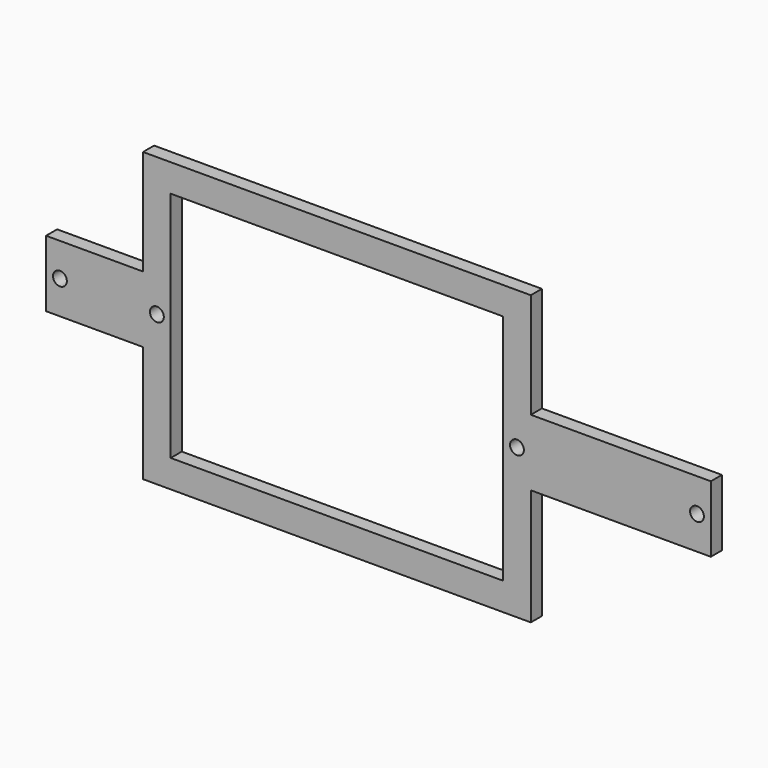
from build123d import *

# Parameters (mm, degrees)
BOX008_W          = 120
BOX008_H          = 30
BOX008_DEPTH      = 84
CYLINDER052_R     = 2.5
CYLINDER052_DEPTH = 10
CYLINDER053_R     = 2.5
CYLINDER053_DEPTH = 10
CYLINDER054_R     = 2.5
CYLINDER054_DEPTH = 10
CYLINDER055_R     = 2.5
CYLINDER055_DEPTH = 10
CYLINDER051_R     = 2.5
CYLINDER051_DEPTH = 10
CYLINDER056_R     = 2.5
CYLINDER056_DEPTH = 10
BOX001_W          = 240
BOX001_H          = 5
BOX001_DEPTH      = 24
BOX002_W          = 140
BOX002_H          = 5
BOX002_DEPTH      = 38
BOX003_W          = 140
BOX003_H          = 5
BOX003_DEPTH      = 42


with BuildPart() as gatewaycut:
    # Box008 → Box008 (new body)
    with BuildSketch(Plane(origin=(-75, -3.2, -75), x_dir=(1, 0, 0), z_dir=(0, 0, 1))):
        with Locations((60, 15)):
            Rectangle(BOX008_W, BOX008_H)
    extrude(amount=BOX008_DEPTH)


with BuildPart() as cylinder052:
    # Cylinder052 → Cylinder052 (new body)
    with BuildSketch(Plane(origin=(115, 0, -31), x_dir=(1, 0, 0), z_dir=(0, -1, 0))):
        Circle(CYLINDER052_R)
    extrude(amount=CYLINDER052_DEPTH)


with BuildPart() as cylinder053:
    # Cylinder053 → Cylinder053 (new body)
    with BuildSketch(Plane(origin=(-80, 0, -31), x_dir=(1, 0, 0), z_dir=(0, -1, 0))):
        Circle(CYLINDER053_R)
    extrude(amount=CYLINDER053_DEPTH)


with BuildPart() as cylinder054:
    # Cylinder054 → Cylinder054 (new body)
    with BuildSketch(Plane(origin=(50, 0, -31), x_dir=(1, 0, 0), z_dir=(0, -1, 0))):
        Circle(CYLINDER054_R)
    extrude(amount=CYLINDER054_DEPTH)


with BuildPart() as cylinder055:
    # Cylinder055 → Cylinder055 (new body)
    with BuildSketch(Plane(origin=(-45.75, 0, -56.3), x_dir=(1, 0, 0), z_dir=(0, -1, 0))):
        Circle(CYLINDER055_R)
    extrude(amount=CYLINDER055_DEPTH)


with BuildPart() as cylinder051:
    # Cylinder051 → Cylinder051 (new body)
    with BuildSketch(Plane(origin=(-115, 0, -31), x_dir=(1, 0, 0), z_dir=(0, -1, 0))):
        Circle(CYLINDER051_R)
    extrude(amount=CYLINDER051_DEPTH)


with BuildPart() as m3heatsetinserts001:
    # Cylinder056 → Cylinder056 (new body)
    with BuildSketch(Plane(origin=(-45.75, 0, -1.3), x_dir=(1, 0, 0), z_dir=(0, -1, 0))):
        Circle(CYLINDER056_R)
    extrude(amount=CYLINDER056_DEPTH)

    # Fusion018: union Cylinder052, Cylinder053, Cylinder054, Cylinder055, Cylinder051
    add(cylinder052.part)
    add(cylinder053.part)
    add(cylinder054.part)
    add(cylinder055.part)
    add(cylinder051.part)


with BuildPart() as m3heatsetinserts001_1:
    # Fusion018 placement: moved
    add(m3heatsetinserts001.part.moved(Location((0, 5.1, 0))))


with BuildPart() as cube:
    # Box001 → Box001 (new body)
    with BuildSketch(Plane(origin=(-120, 0, -43), x_dir=(1, 0, 0), z_dir=(0, 0, 1))):
        with Locations((120, 2.5)):
            Rectangle(BOX001_W, BOX001_H)
    extrude(amount=BOX001_DEPTH)


with BuildPart() as cube001:
    # Box002 → Box002 (new body)
    with BuildSketch(Plane(origin=(-85, 0, -19), x_dir=(1, 0, 0), z_dir=(0, 0, 1))):
        with Locations((70, 2.5)):
            Rectangle(BOX002_W, BOX002_H)
    extrude(amount=BOX002_DEPTH)


with BuildPart() as mainbase:
    # Box003 → Box003 (new body)
    with BuildSketch(Plane(origin=(-85, 0, -85), x_dir=(1, 0, 0), z_dir=(0, 0, 1))):
        with Locations((70, 2.5)):
            Rectangle(BOX003_W, BOX003_H)
    extrude(amount=BOX003_DEPTH)

    # Fusion013: union Cube, Cube001
    add(cube.part)
    add(cube001.part)

    # Cut003: cut M3HeatSetInserts001
    add(m3heatsetinserts001_1.part, mode=Mode.SUBTRACT)

    # Cut004: cut GatewayCut
    add(gatewaycut.part, mode=Mode.SUBTRACT)


solid = mainbase.part
